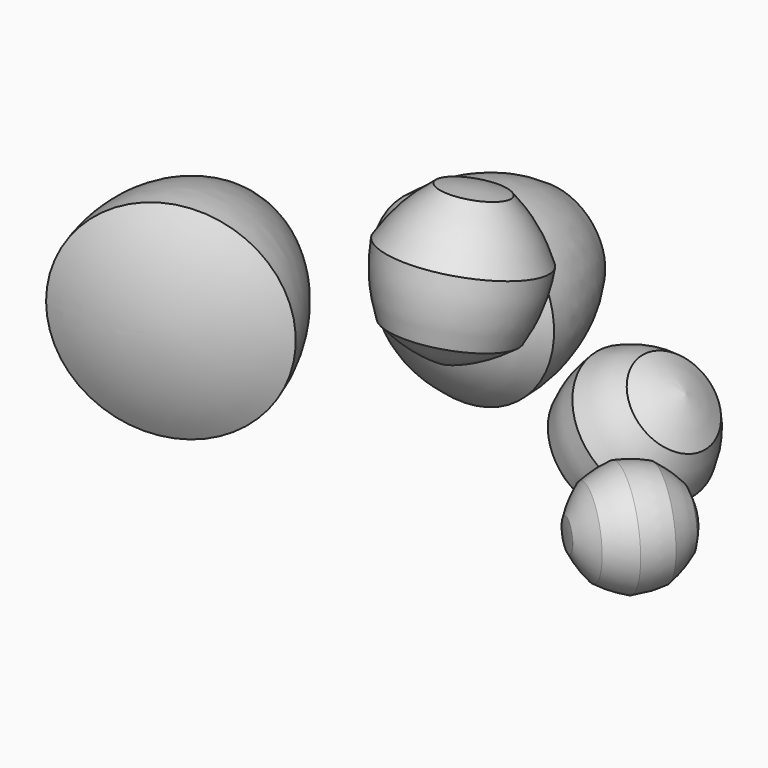
from build123d import *


with BuildPart() as f1:
    # F0 (on Top) → F1 (revolve)
    with BuildSketch(Plane.XY):
        with BuildLine():
            Line((-146.1373344064, -83.3647251129), (-129.7365214538, 8.2157292591))
            ThreePointArc((-129.7365214538, 8.2157292591), (-150.2063823258, -35.377205634), (-146.1373344064, -83.3647251129))
        make_face()
        Polygon((-102.4097225551, -67.5815112596), (-129.7365214538, 8.2157292591), (-146.1373344064, -83.3647251129), align=None)
        with BuildLine():
            Line((-102.4097225551, -67.5815112596), (-146.1373344064, -83.3647251129))
            ThreePointArc((-146.1373344064, -83.3647251129), (-121.8929056935, -84.4904948054), (-98.1822542209, -79.3073791631))
            Line((-98.1822542209, -79.3073791631), (-102.4097225551, -67.5815112596))
        make_face()
    revolve(axis=Axis((-113.9593878373, -35.545824952, 0), (0.3391566376, -0.9407299162, 0)))


with BuildPart() as f3:
    # F2 (on Top) → F3 (revolve)
    with BuildSketch(Plane.XY):
        Polygon((-74.5698622119, 10.2216538637), (-33.1633482265, -19.6876278363), (-33.2734739795, 58.9200121304), (-58.9181051315, 58.8492110716), align=None)
        with BuildLine():
            ThreePointArc((-58.9181051315, 58.8492110716), (-70.5949078881, 35.7749298603), (-74.5698622119, 10.2216538637))
            Line((-74.5698622119, 10.2216538637), (-58.9181051315, 58.8492110716))
        make_face()
        with BuildLine():
            Line((-33.163345767, -19.6893834165), (-33.1633482265, -19.6876278363))
            Line((-33.1633482265, -19.6876278363), (-74.5698622119, 10.2216538637))
            ThreePointArc((-74.5698622119, 10.2216538637), (-56.2351120919, -8.0126434017), (-33.163345767, -19.6893834165))
        make_face()
        with BuildLine():
            Line((-58.9181051315, 58.8492110716), (-33.2734739795, 58.9200121304))
            Line((-33.2734739795, 58.9200121304), (-33.2789383829, 62.8204972037))
            ThreePointArc((-33.2789383829, 62.8204972037), (-46.2469641117, 61.8145363227), (-58.9130563903, 58.8561997987))
            ThreePointArc((-58.9130563903, 58.8561997987), (-58.915580852, 58.852705501), (-58.9181051315, 58.8492110716))
        make_face()
    revolve(axis=Axis((-33.2189521851, 20.0024159868, 0), (-0.0014009535, 0.9999990187, 0)))


with BuildPart() as f5:
    # F4 (on Right) → F5 (revolve)
    with BuildSketch(Plane.YZ):
        Polygon((-12.7203869767, 10.9959738065), (1.0213595949, 37.4016864489), (-11.0556190188, 64.6091090861), (-24.9125786381, 68.227795716), (-41.3208693604, 5.395877617), align=None)
        with BuildLine():
            Line((-24.9125786381, 68.227795716), (-11.0556190188, 64.6091090861))
            ThreePointArc((-11.0556190188, 64.6091090861), (-17.6489457911, 67.5352477212), (-24.5196294459, 69.7325076863))
            Line((-24.5196294459, 69.7325076863), (-24.9125786381, 68.227795716))
        make_face()
        with BuildLine():
            Line((-11.0556190188, 64.6091090861), (1.0213595949, 37.4016864489))
            ThreePointArc((1.0213595949, 37.4016864489), (-3.4843595642, 51.6857721103), (-11.0556190188, 64.6091090861))
        make_face()
        with BuildLine():
            ThreePointArc((-41.3561991852, 5.2605898716), (-26.7214439182, 6.546306992), (-12.7203869767, 10.9959738065))
            Line((-12.7203869767, 10.9959738065), (-41.3208693604, 5.395877617))
            Line((-41.3208693604, 5.395877617), (-41.3561991852, 5.2605898716))
        make_face()
        with BuildLine():
            ThreePointArc((-12.7203869767, 10.9959738065), (-4.3619090541, 23.4246686349), (1.0213595949, 37.4016864489))
            Line((1.0213595949, 37.4016864489), (-12.7203869767, 10.9959738065))
        make_face()
    revolve(axis=Axis((0, -32.9490283714, 37.4539899617), (0, 0.2526721191, 0.9675519626)))


with BuildPart() as f7:
    # F6 (on Front) → F7 (revolve)
    with BuildSketch(Plane.XZ):
        Polygon((35.8056953647, 5.425106921), (23.3905876649, -11.9140592887), (25.0254646026, -33.1769086143), (32.4854068458, -40.7956130803), (75.6932269725, 1.5118217391), (56.4616208308, 10.7274014418), align=None)
        with BuildLine():
            ThreePointArc((75.6932269725, 1.5118217391), (66.4805532775, 6.9608853499), (56.4616208308, 10.7274014418))
            Line((56.4616208308, 10.7274014418), (75.6932269725, 1.5118217391))
        make_face()
        with BuildLine():
            ThreePointArc((56.4616208308, 10.7274014418), (45.9017127671, 8.9798338378), (35.8056953647, 5.425106921))
            Line((35.8056953647, 5.425106921), (56.4616208308, 10.7274014418))
        make_face()
        with BuildLine():
            ThreePointArc((35.8056953647, 5.425106921), (28.8396512756, -2.7013855938), (23.3905876649, -11.9140592887))
            Line((23.3905876649, -11.9140592887), (35.8056953647, 5.425106921))
        make_face()
        with BuildLine():
            Line((25.0254646026, -33.1769086143), (23.3905876649, -11.9140592887))
            ThreePointArc((23.3905876649, -11.9140592887), (23.2778969986, -22.6170005507), (25.0254646026, -33.1769086143))
        make_face()
        with BuildLine():
            Line((32.4854068458, -40.7956130803), (25.0254646026, -33.1769086143))
            ThreePointArc((25.0254646026, -33.1769086143), (28.2415927943, -37.4608939852), (31.8188565743, -41.4482734571))
            Line((31.8188565743, -41.4482734571), (32.4854068458, -40.7956130803))
        make_face()
    revolve(axis=Axis((54.0893169091, 0, -19.6418956706), (-0.7145122649, 0, -0.6996229151)))


with BuildPart() as f9:
    # F8 (on Top) → F9 (revolve)
    with BuildSketch(Plane.XY):
        Polygon((100.3749181311, -77.9535135894), (97.9098270852, -91.4429762692), (103.1290146644, -104.1237632428), (108.7522201768, -108.0467887435), (136.0374618616, -68.9365353375), (123.0361214952, -64.5767846644), (109.7416388125, -67.9381842921), align=None)
        with BuildLine():
            Line((108.7522201768, -108.0467887435), (103.1290146644, -104.1237632428))
            ThreePointArc((103.1290146644, -104.1237632428), (105.7829421335, -106.3021629176), (108.588932373, -108.2808430157))
            Line((108.588932373, -108.2808430157), (108.7522201768, -108.0467887435))
        make_face()
        with BuildLine():
            Line((103.1290146644, -104.1237632428), (97.9098270852, -91.4429762692))
            ThreePointArc((97.9098270852, -91.4429762692), (100.0240039552, -97.9175769329), (103.0252135659, -104.0317357845))
            ThreePointArc((103.0252135659, -104.0317357845), (103.077080136, -104.07778784), (103.1290146644, -104.1237632428))
        make_face()
        with BuildLine():
            ThreePointArc((100.3749181311, -77.9535135894), (98.6599799022, -84.6100915337), (97.9098270852, -91.4429762692))
            Line((97.9098270852, -91.4429762692), (100.3749181311, -77.9535135894))
        make_face()
        with BuildLine():
            ThreePointArc((109.7416388125, -67.9381842921), (104.7001232276, -72.6108883984), (100.3749181311, -77.9535135894))
            Line((100.3749181311, -77.9535135894), (109.7416388125, -67.9381842921))
        make_face()
        with BuildLine():
            ThreePointArc((123.0361214952, -64.5767846644), (116.2686741308, -65.7820643946), (109.7416388125, -67.9381842921))
            Line((109.7416388125, -67.9381842921), (123.0361214952, -64.5767846644))
        make_face()
        with BuildLine():
            ThreePointArc((136.0374618616, -68.9365353375), (129.6926994395, -66.2917228934), (123.0361214952, -64.5767846644))
            Line((123.0361214952, -64.5767846644), (136.0374618616, -68.9365353375))
        make_face()
    revolve(axis=Axis((122.3131971173, -88.6086891766, 0), (-0.5721677507, -0.8201366137, 0)))


solid = Compound([f1.part, f3.part, f5.part, f7.part, f9.part])
